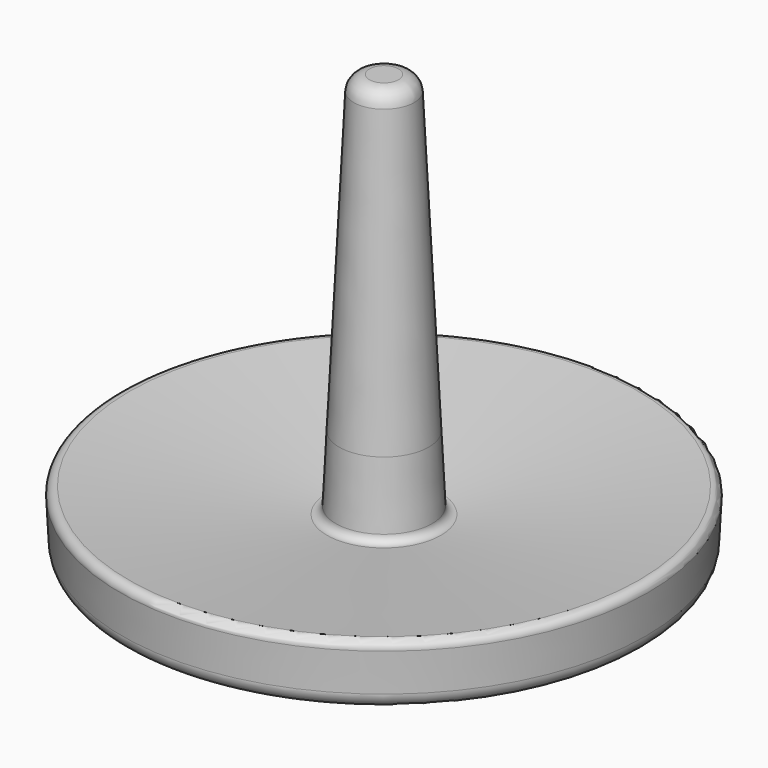
from build123d import *


with BuildPart() as f1:
    # F0 (on Front) → F1 (revolve)
    with BuildSketch(Plane.XZ):
        with BuildLine():
            Line((1.178567, 38.1), (0, 38.1))
            Line((0, 38.1), (0, 0))
            Line((0, 0), (2.387992, 3.81))
            Line((2.387992, 3.81), (19.88674, 3.81))
            ThreePointArc((19.88674, 3.81), (20.769638, 4.167097), (21.156031, 5.037571))
            Line((21.156031, 5.037571), (21.315811, 8.169891))
            ThreePointArc((21.315811, 8.169891), (21.113608, 8.66767), (20.602155, 8.832246))
            Line((20.602155, 8.832246), (4.602036, 6.813674))
            ThreePointArc((4.602036, 6.813674), (4.11434, 6.95728), (3.888313, 7.412672))
            Line((3.888313, 7.412672), (3.626376, 12.770278))
            Line((3.626376, 12.770278), (2.447051, 36.892017))
            ThreePointArc((2.447051, 36.892017), (2.054391, 37.749691), (1.178567, 38.1))
        make_face()
    revolve(axis=Axis((0, 0, 19.05), (0, 0, -1)))


solid = f1.part
